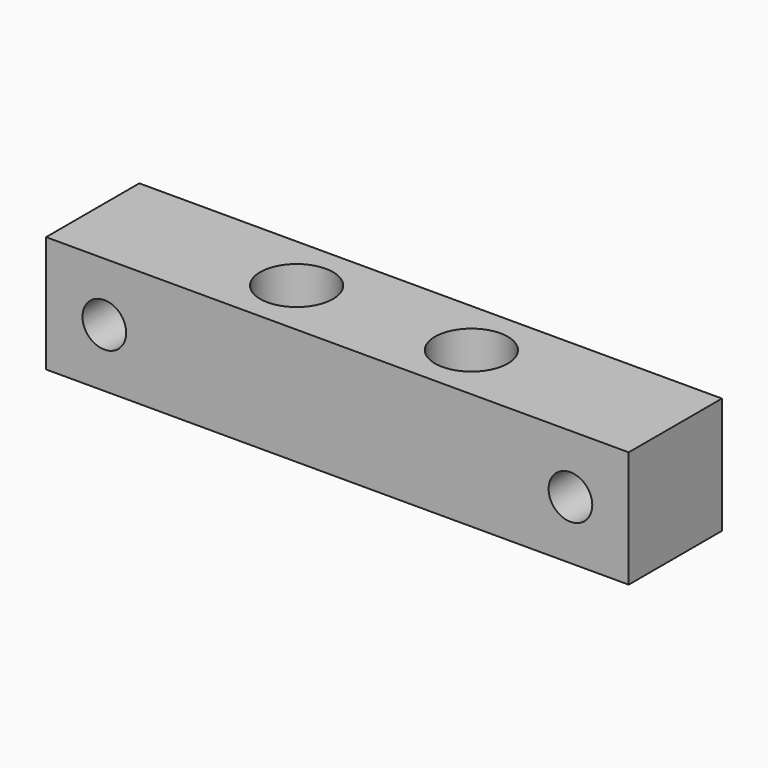
from build123d import *

# Parameters (mm, degrees)
BOX_W           = 40
BOX_H           = 8
BOX_DEPTH       = 8
SKETCH_R        = 2.5
POCKET_DEPTH    = 8
SKETCH001_R     = 1.5
POCKET001_DEPTH = 8


with BuildPart() as part:
    # Box → Box (new body)
    with BuildSketch(Plane(origin=(-20, -4, -4), x_dir=(1, 0, 0), z_dir=(0, 0, 1))):
        with Locations((20, 4)):
            Rectangle(BOX_W, BOX_H)
    extrude(amount=BOX_DEPTH)

    # Sketch → Pocket (cut)
    with BuildSketch(Plane(origin=(-20, -4, 4), x_dir=(1, 0, 0), z_dir=(0, 0, 1))):
        with Locations((26, 4)):
            Circle(SKETCH_R)
        with Locations((14, 4)):
            Circle(SKETCH_R)
    extrude(amount=-POCKET_DEPTH, mode=Mode.SUBTRACT)

    # Sketch001 → Pocket001 (cut)
    with BuildSketch(Plane(origin=(-20, -4, -4), x_dir=(1, 0, 0), z_dir=(0, -1, 0))):
        with Locations((4, 4)):
            Circle(SKETCH001_R)
        with Locations((36, 4)):
            Circle(SKETCH001_R)
    extrude(amount=-POCKET001_DEPTH, mode=Mode.SUBTRACT)


solid = part.part
